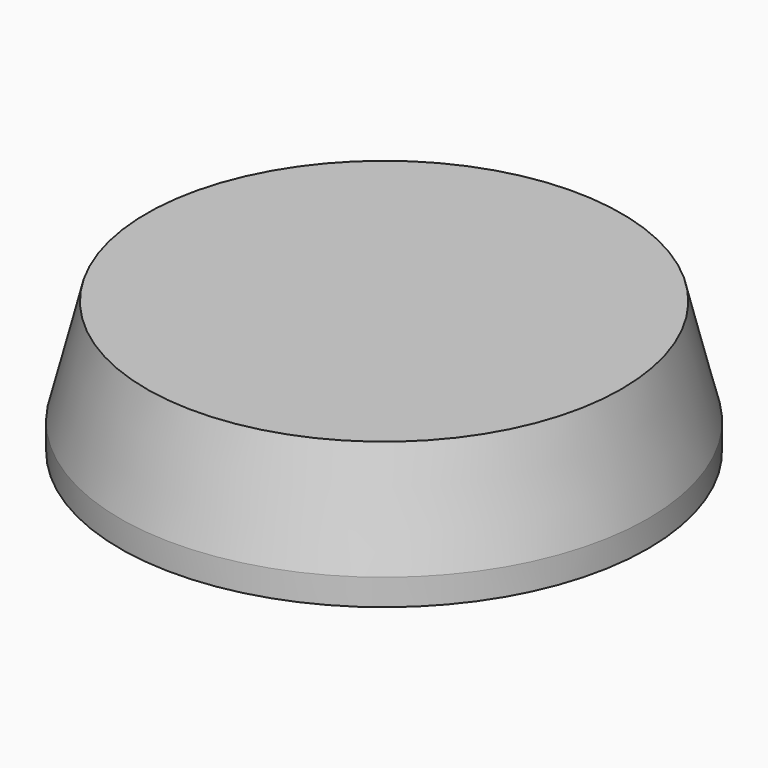
from build123d import *

# Parameters (mm, degrees)
F0_R     = 20
F1_DEPTH = 10
F2_SIZE2 = 8
F2_SIZE  = 2


with BuildPart() as f1:
    # F0 (on Top) → F1 (new body)
    with BuildSketch(Plane.XY):
        Circle(F0_R)
    extrude(amount=F1_DEPTH)

    # F2
    f2_edges = [f1.edges().sort_by_distance(p)[0] for p in [
        (-20, 0, 10),
    ]]
    f2_side = f1.faces().sort_by_distance((0, 0, 10))[0]
    chamfer(f2_edges, length=F2_SIZE, length2=F2_SIZE2, reference=f2_side)


solid = f1.part
